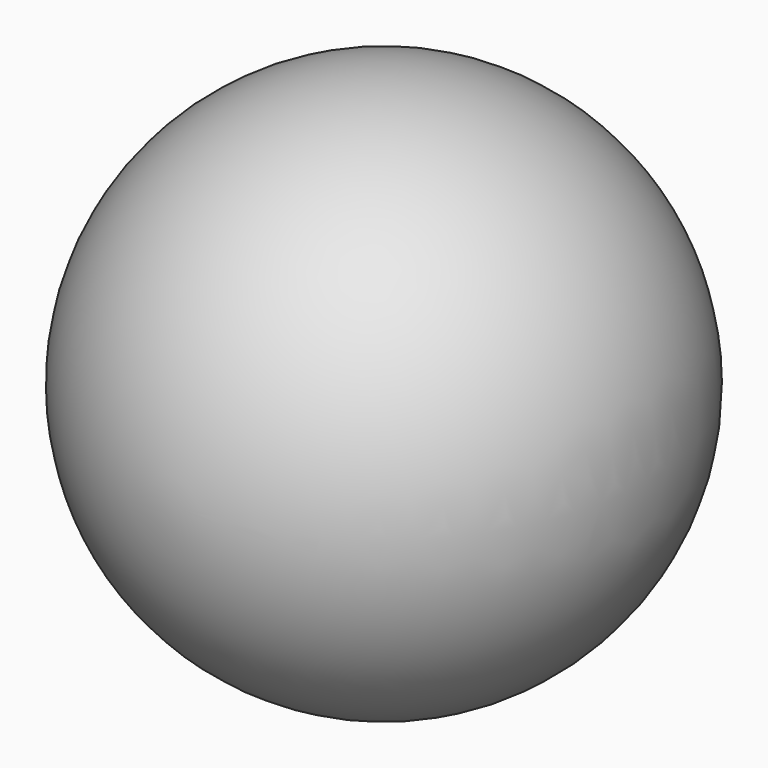
from build123d import *


with BuildPart() as f1:
    # F0 (on Top) → F1 (revolve)
    with BuildSketch(Plane.XY):
        with BuildLine():
            Line((0, 0), (0, -32.443921))
            ThreePointArc((0, -32.443921), (32.443921, 0), (0, 32.443921))
            Line((0, 32.443921), (0, 0))
        make_face()
    revolve(axis=Axis((0, -16.22196, 0), (0, -1, 0)))


solid = f1.part
